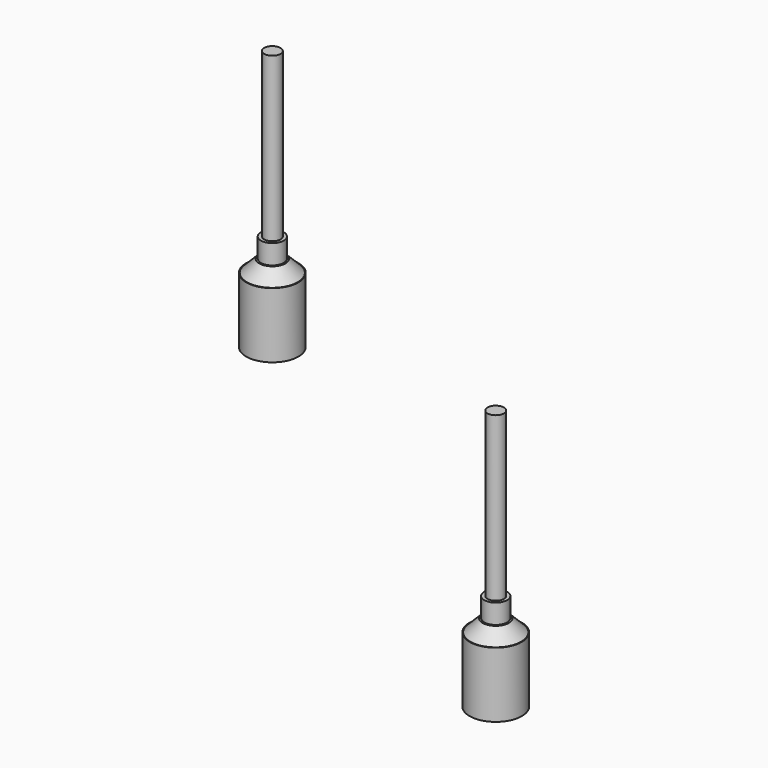
from build123d import *

# Parameters (mm, degrees)
CYLINDER016_R     = 4
CYLINDER016_DEPTH = 10
CYLINDER017_R     = 4
CYLINDER017_DEPTH = 10
CYLINDER014_R     = 1.25
CYLINDER014_DEPTH = 30
CYLINDER015_R     = 1.75
CYLINDER015_DEPTH = 5
CYLINDER013_R     = 1.25
CYLINDER013_DEPTH = 30
CYLINDER012_R     = 1.75
CYLINDER012_DEPTH = 5


with BuildPart() as cylinder016:
    # Cylinder016 → Cylinder016 (new body)
    with BuildSketch(Plane(origin=(4, 60, -9.9), x_dir=(1, 0, 0), z_dir=(0, 0, 1))):
        Circle(CYLINDER016_R)
    extrude(amount=CYLINDER016_DEPTH)


with BuildPart() as cylinder017:
    # Cylinder017 → Cylinder017 (new body)
    with BuildSketch(Plane(origin=(83, 4, -9.9), x_dir=(1, 0, 0), z_dir=(0, 0, 1))):
        Circle(CYLINDER017_R)
    extrude(amount=CYLINDER017_DEPTH)


with BuildPart() as cone001:
    # Cone001 → Cone001 (revolve)
    with BuildSketch(Plane(origin=(83, 4, 0), x_dir=(1, 0, 0), z_dir=(0, -1, 0))):
        Polygon((0, 0), (4, 0), (2, 2), (0, 2), align=None)
    revolve(axis=Axis((83, 4, 0), (0, 0, 1)))


with BuildPart() as cylinder014:
    # Cylinder014 → Cylinder014 (new body)
    with BuildSketch(Plane(origin=(83, 4, 0), x_dir=(1, 0, 0), z_dir=(0, 0, 1))):
        Circle(CYLINDER014_R)
    extrude(amount=CYLINDER014_DEPTH)


with BuildPart() as fusion006:
    # Cylinder015 → Cylinder015 (new body)
    with BuildSketch(Plane(origin=(83, 4, 0), x_dir=(1, 0, 0), z_dir=(0, 0, 1))):
        Circle(CYLINDER015_R)
    extrude(amount=CYLINDER015_DEPTH)

    # Fusion006: union Cone001, Cylinder014
    add(cone001.part)
    add(cylinder014.part)


with BuildPart() as fusion006_1:
    # Fusion006 placement: moved
    add(fusion006.part.moved(Location((-79, 56, 0))))


with BuildPart() as cone:
    # Cone → Cone (revolve)
    with BuildSketch(Plane(origin=(83, 4, 0), x_dir=(1, 0, 0), z_dir=(0, -1, 0))):
        Polygon((0, 0), (4, 0), (2, 2), (0, 2), align=None)
    revolve(axis=Axis((83, 4, 0), (0, 0, 1)))


with BuildPart() as cylinder013:
    # Cylinder013 → Cylinder013 (new body)
    with BuildSketch(Plane(origin=(83, 4, 0), x_dir=(1, 0, 0), z_dir=(0, 0, 1))):
        Circle(CYLINDER013_R)
    extrude(amount=CYLINDER013_DEPTH)


with BuildPart() as fusion008:
    # Cylinder012 → Cylinder012 (new body)
    with BuildSketch(Plane(origin=(83, 4, 0), x_dir=(1, 0, 0), z_dir=(0, 0, 1))):
        Circle(CYLINDER012_R)
    extrude(amount=CYLINDER012_DEPTH)

    # Fusion005: union Cone, Cylinder013
    add(cone.part)
    add(cylinder013.part)

    # Fusion007: union Fusion006
    add(fusion006_1.part)

    # Fusion008: union Cylinder016, Cylinder017
    add(cylinder016.part)
    add(cylinder017.part)


solid = fusion008.part
